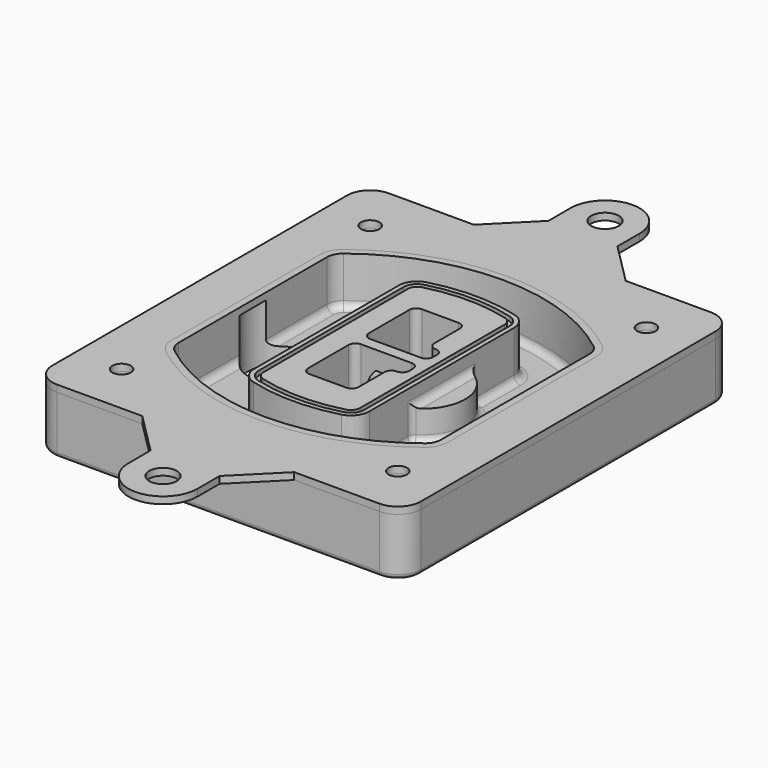
from build123d import *

# Parameters (mm, degrees)
F0_R      = 4
F1_DEPTH  = 25
F2_DEPTH  = 3
F3_DEPTH  = 18
F5_DEPTH  = 21
F6_DEPTH  = 2
F8_DEPTH  = 20
F9_DEPTH  = 16
F10_DEPTH = 25
F7_R      = 6
F7_R_2    = 4
F11_DEPTH = 6
F13_DEPTH = 9
F14_R     = 3
F15_R     = 2
F16_R     = 4
F16_R_2   = 6
F17_DEPTH = 3


with BuildPart() as f1:
    # F0 (on Top) → F1 (new body)
    with BuildSketch(Plane.XY):
        with BuildLine():
            ThreePointArc((-80, -80), (-77.0710678119, -87.0710678119), (-70, -90))
            Line((-70, -90), (70, -90))
            ThreePointArc((70, -90), (77.0710678119, -87.0710678119), (80, -80))
            Line((80, -80), (80, 80))
            ThreePointArc((80, 80), (77.0710678119, 87.0710678119), (70, 90))
            Line((70, 90), (-70, 90))
            ThreePointArc((-70, 90), (-77.0710678119, 87.0710678119), (-80, 80))
            Line((-80, 80), (-80, -80))
        make_face()
        with Locations((-60, -67.5)):
            Circle(F0_R, mode=Mode.SUBTRACT)
        with Locations((60, -67.5)):
            Circle(F0_R, mode=Mode.SUBTRACT)
        with Locations((-60, 67.5)):
            Circle(F0_R, mode=Mode.SUBTRACT)
        with BuildLine():
            ThreePointArc((-64, 40.2934422872), (-62.5820384798, 46.4328484224), (-58.6153846154, 51.3286200352))
            ThreePointArc((-58.6153846154, 51.3286200352), (0, 71.5), (58.6153846154, 51.3286200352))
            ThreePointArc((58.6153846154, 51.3286200352), (62.5820384798, 46.4328484224), (64, 40.2934422872))
            Line((64, 40.2934422872), (64, -40.2934422872))
            ThreePointArc((64, -40.2934422872), (62.5820384798, -46.4328484224), (58.6153846154, -51.3286200352))
            ThreePointArc((58.6153846154, -51.3286200352), (0, -71.5), (-58.6153846154, -51.3286200352))
            ThreePointArc((-58.6153846154, -51.3286200352), (-62.5820384798, -46.4328484224), (-64, -40.2934422872))
            Line((-64, -40.2934422872), (-64, 40.2934422872))
        make_face(mode=Mode.SUBTRACT)
        with Locations((60, 67.5)):
            Circle(F0_R, mode=Mode.SUBTRACT)
        with BuildLine():
            ThreePointArc((58.6153846154, 51.3286200352), (0, 71.5), (-58.6153846154, 51.3286200352))
            ThreePointArc((-58.6153846154, 51.3286200352), (-62.5820384798, 46.4328484224), (-64, 40.2934422872))
            Line((-64, 40.2934422872), (-64, -40.2934422872))
            ThreePointArc((-64, -40.2934422872), (-62.5820384798, -46.4328484224), (-58.6153846154, -51.3286200352))
            ThreePointArc((-58.6153846154, -51.3286200352), (0, -71.5), (58.6153846154, -51.3286200352))
            ThreePointArc((58.6153846154, -51.3286200352), (62.5820384798, -46.4328484224), (64, -40.2934422872))
            Line((64, -40.2934422872), (64, 40.2934422872))
            ThreePointArc((64, 40.2934422872), (62.5820384798, 46.4328484224), (58.6153846154, 51.3286200352))
        make_face()
        with BuildLine():
            Line((-60, -40.2934422872), (-60, 40.2934422872))
            ThreePointArc((-60, 40.2934422872), (-58.9871703427, 44.6787323838), (-56.1538461538, 48.1757121072))
            ThreePointArc((-56.1538461538, 48.1757121072), (0, 67.5), (56.1538461538, 48.1757121072))
            ThreePointArc((56.1538461538, 48.1757121072), (58.9871703427, 44.6787323838), (60, 40.2934422872))
            Line((60, 40.2934422872), (60, -40.2934422872))
            ThreePointArc((60, -40.2934422872), (58.9871703427, -44.6787323838), (56.1538461538, -48.1757121072))
            ThreePointArc((56.1538461538, -48.1757121072), (0, -67.5), (-56.1538461538, -48.1757121072))
            ThreePointArc((-56.1538461538, -48.1757121072), (-58.9871703427, -44.6787323838), (-60, -40.2934422872))
        make_face(mode=Mode.SUBTRACT)
        with BuildLine():
            ThreePointArc((-56.1538461538, 48.1757121072), (-58.9871703427, 44.6787323838), (-60, 40.2934422872))
            Line((-60, 40.2934422872), (-60, -40.2934422872))
            ThreePointArc((-60, -40.2934422872), (-58.9871703427, -44.6787323838), (-56.1538461538, -48.1757121072))
            ThreePointArc((-56.1538461538, -48.1757121072), (0, -67.5), (56.1538461538, -48.1757121072))
            ThreePointArc((56.1538461538, -48.1757121072), (58.9871703427, -44.6787323838), (60, -40.2934422872))
            Line((60, -40.2934422872), (60, 40.2934422872))
            ThreePointArc((60, 40.2934422872), (58.9871703427, 44.6787323838), (56.1538461538, 48.1757121072))
            ThreePointArc((56.1538461538, 48.1757121072), (0, 67.5), (-56.1538461538, 48.1757121072))
        make_face()
        with BuildLine():
            ThreePointArc((54.3076923077, 45.8110311612), (56.2910192399, 43.3631453548), (57, 40.2934422872))
            Line((57, 40.2934422872), (57, -40.2934422872))
            ThreePointArc((57, -40.2934422872), (56.2910192399, -43.3631453548), (54.3076923077, -45.8110311612))
            ThreePointArc((54.3076923077, -45.8110311612), (0, -64.5), (-54.3076923077, -45.8110311612))
            ThreePointArc((-54.3076923077, -45.8110311612), (-56.2910192399, -43.3631453548), (-57, -40.2934422872))
            Line((-57, -40.2934422872), (-57, 40.2934422872))
            ThreePointArc((-57, 40.2934422872), (-56.2910192399, 43.3631453548), (-54.3076923077, 45.8110311612))
            ThreePointArc((-54.3076923077, 45.8110311612), (0, 64.5), (54.3076923077, 45.8110311612))
        make_face(mode=Mode.SUBTRACT)
        with BuildLine():
            Line((57, -40.2934422872), (57, 40.2934422872))
            ThreePointArc((57, 40.2934422872), (56.2910192399, 43.3631453548), (54.3076923077, 45.8110311612))
            ThreePointArc((54.3076923077, 45.8110311612), (0, 64.5), (-54.3076923077, 45.8110311612))
            ThreePointArc((-54.3076923077, 45.8110311612), (-56.2910192399, 43.3631453548), (-57, 40.2934422872))
            Line((-57, 40.2934422872), (-57, -40.2934422872))
            ThreePointArc((-57, -40.2934422872), (-56.2910192399, -43.3631453548), (-54.3076923077, -45.8110311612))
            ThreePointArc((-54.3076923077, -45.8110311612), (0, -64.5), (54.3076923077, -45.8110311612))
            ThreePointArc((54.3076923077, -45.8110311612), (56.2910192399, -43.3631453548), (57, -40.2934422872))
        make_face()
    extrude(amount=-F1_DEPTH)

    # F0 (on Top) → F2 (join)
    with BuildSketch(Plane.XY):
        with BuildLine():
            ThreePointArc((-56.1538461538, 48.1757121072), (-58.9871703427, 44.6787323838), (-60, 40.2934422872))
            Line((-60, 40.2934422872), (-60, -40.2934422872))
            ThreePointArc((-60, -40.2934422872), (-58.9871703427, -44.6787323838), (-56.1538461538, -48.1757121072))
            ThreePointArc((-56.1538461538, -48.1757121072), (0, -67.5), (56.1538461538, -48.1757121072))
            ThreePointArc((56.1538461538, -48.1757121072), (58.9871703427, -44.6787323838), (60, -40.2934422872))
            Line((60, -40.2934422872), (60, 40.2934422872))
            ThreePointArc((60, 40.2934422872), (58.9871703427, 44.6787323838), (56.1538461538, 48.1757121072))
            ThreePointArc((56.1538461538, 48.1757121072), (0, 67.5), (-56.1538461538, 48.1757121072))
        make_face()
        with BuildLine():
            ThreePointArc((54.3076923077, 45.8110311612), (56.2910192399, 43.3631453548), (57, 40.2934422872))
            Line((57, 40.2934422872), (57, -40.2934422872))
            ThreePointArc((57, -40.2934422872), (56.2910192399, -43.3631453548), (54.3076923077, -45.8110311612))
            ThreePointArc((54.3076923077, -45.8110311612), (0, -64.5), (-54.3076923077, -45.8110311612))
            ThreePointArc((-54.3076923077, -45.8110311612), (-56.2910192399, -43.3631453548), (-57, -40.2934422872))
            Line((-57, -40.2934422872), (-57, 40.2934422872))
            ThreePointArc((-57, 40.2934422872), (-56.2910192399, 43.3631453548), (-54.3076923077, 45.8110311612))
            ThreePointArc((-54.3076923077, 45.8110311612), (0, 64.5), (54.3076923077, 45.8110311612))
        make_face(mode=Mode.SUBTRACT)
    extrude(amount=F2_DEPTH)

    # F0 (on Top) → F3 (cut)
    with BuildSketch(Plane.XY):
        with BuildLine():
            Line((57, -40.2934422872), (57, 40.2934422872))
            ThreePointArc((57, 40.2934422872), (56.2910192399, 43.3631453548), (54.3076923077, 45.8110311612))
            ThreePointArc((54.3076923077, 45.8110311612), (0, 64.5), (-54.3076923077, 45.8110311612))
            ThreePointArc((-54.3076923077, 45.8110311612), (-56.2910192399, 43.3631453548), (-57, 40.2934422872))
            Line((-57, 40.2934422872), (-57, -40.2934422872))
            ThreePointArc((-57, -40.2934422872), (-56.2910192399, -43.3631453548), (-54.3076923077, -45.8110311612))
            ThreePointArc((-54.3076923077, -45.8110311612), (0, -64.5), (54.3076923077, -45.8110311612))
            ThreePointArc((54.3076923077, -45.8110311612), (56.2910192399, -43.3631453548), (57, -40.2934422872))
        make_face()
    extrude(amount=-F3_DEPTH, mode=Mode.SUBTRACT)

    # F4 (on face) → F5 (join, through all)
    with BuildSketch(Plane.XY.offset(3)):
        with BuildLine():
            ThreePointArc((-25, -39.2465276821), (-23.3511545998, -44.1109737193), (-19.0842911877, -46.9702398883))
            ThreePointArc((-19.0842911877, -46.9702398883), (0, -49.5), (19.0842911877, -46.9702398883))
            ThreePointArc((19.0842911877, -46.9702398883), (23.3511545998, -44.1109737193), (25, -39.2465276821))
            Line((25, -39.2465276821), (25, 39.2465276821))
            ThreePointArc((25, 39.2465276821), (23.3511545998, 44.1109737193), (19.0842911877, 46.9702398883))
            ThreePointArc((19.0842911877, 46.9702398883), (0, 49.5), (-19.0842911877, 46.9702398883))
            ThreePointArc((-19.0842911877, 46.9702398883), (-23.3511545998, 44.1109737193), (-25, 39.2465276821))
            Line((-25, 39.2465276821), (-25, -39.2465276821))
        make_face()
        with BuildLine():
            ThreePointArc((18.5632183908, 45.0393118368), (21.7633659499, 42.89486221), (23, 39.2465276821))
            Line((23, 39.2465276821), (23, -39.2465276821))
            ThreePointArc((23, -39.2465276821), (21.7633659499, -42.89486221), (18.5632183908, -45.0393118368))
            ThreePointArc((18.5632183908, -45.0393118368), (0, -47.5), (-18.5632183908, -45.0393118368))
            ThreePointArc((-18.5632183908, -45.0393118368), (-21.7633659499, -42.89486221), (-23, -39.2465276821))
            Line((-23, -39.2465276821), (-23, 39.2465276821))
            ThreePointArc((-23, 39.2465276821), (-21.7633659499, 42.89486221), (-18.5632183908, 45.0393118368))
            ThreePointArc((-18.5632183908, 45.0393118368), (0, 47.5), (18.5632183908, 45.0393118368))
        make_face(mode=Mode.SUBTRACT)
        with BuildLine():
            Line((23, -39.2465276821), (23, 39.2465276821))
            ThreePointArc((23, 39.2465276821), (21.7633659499, 42.89486221), (18.5632183908, 45.0393118368))
            ThreePointArc((18.5632183908, 45.0393118368), (0, 47.5), (-18.5632183908, 45.0393118368))
            ThreePointArc((-18.5632183908, 45.0393118368), (-21.7633659499, 42.89486221), (-23, 39.2465276821))
            Line((-23, 39.2465276821), (-23, -39.2465276821))
            ThreePointArc((-23, -39.2465276821), (-21.7633659499, -42.89486221), (-18.5632183908, -45.0393118368))
            ThreePointArc((-18.5632183908, -45.0393118368), (0, -47.5), (18.5632183908, -45.0393118368))
            ThreePointArc((18.5632183908, -45.0393118368), (21.7633659499, -42.89486221), (23, -39.2465276821))
        make_face()
        with BuildLine():
            ThreePointArc((18.0421455939, 43.1083837852), (20.1755772999, 41.6787507007), (21, 39.2465276821))
            Line((21, 39.2465276821), (21, -39.2465276821))
            ThreePointArc((21, -39.2465276821), (20.1755772999, -41.6787507007), (18.0421455939, -43.1083837852))
            ThreePointArc((18.0421455939, -43.1083837852), (0, -45.5), (-18.0421455939, -43.1083837852))
            ThreePointArc((-18.0421455939, -43.1083837852), (-20.1755772999, -41.6787507007), (-21, -39.2465276821))
            Line((-21, -39.2465276821), (-21, 39.2465276821))
            ThreePointArc((-21, 39.2465276821), (-20.1755772999, 41.6787507007), (-18.0421455939, 43.1083837852))
            ThreePointArc((-18.0421455939, 43.1083837852), (0, 45.5), (18.0421455939, 43.1083837852))
        make_face(mode=Mode.SUBTRACT)
        with BuildLine():
            Line((21, -39.2465276821), (21, 39.2465276821))
            ThreePointArc((21, 39.2465276821), (20.1755772999, 41.6787507007), (18.0421455939, 43.1083837852))
            ThreePointArc((18.0421455939, 43.1083837852), (0, 45.5), (-18.0421455939, 43.1083837852))
            ThreePointArc((-18.0421455939, 43.1083837852), (-20.1755772999, 41.6787507007), (-21, 39.2465276821))
            Line((-21, 39.2465276821), (-21, -39.2465276821))
            ThreePointArc((-21, -39.2465276821), (-20.1755772999, -41.6787507007), (-18.0421455939, -43.1083837852))
            ThreePointArc((-18.0421455939, -43.1083837852), (0, -45.5), (18.0421455939, -43.1083837852))
            ThreePointArc((18.0421455939, -43.1083837852), (20.1755772999, -41.6787507007), (21, -39.2465276821))
        make_face()
        with BuildLine():
            Line((-8, -2.5), (14, -2.5))
            ThreePointArc((14, -2.5), (16.1213203436, -3.3786796564), (17, -5.5))
            Line((17, -5.5), (17, -7.5))
            ThreePointArc((17, -7.5), (16.1213203436, -9.6213203436), (14, -10.5))
            ThreePointArc((14, -10.5), (11.8786796564, -11.3786796564), (11, -13.5))
            Line((11, -13.5), (11, -27.5))
            ThreePointArc((11, -27.5), (10.1213203436, -29.6213203436), (8, -30.5))
            Line((8, -30.5), (-8, -30.5))
            ThreePointArc((-8, -30.5), (-10.1213203436, -29.6213203436), (-11, -27.5))
            Line((-11, -27.5), (-11, -5.5))
            ThreePointArc((-11, -5.5), (-10.1213203436, -3.3786796564), (-8, -2.5))
        make_face(mode=Mode.SUBTRACT)
        with BuildLine():
            ThreePointArc((-8, 2.5), (-10.1213203436, 3.3786796564), (-11, 5.5))
            Line((-11, 5.5), (-11, 27.5))
            ThreePointArc((-11, 27.5), (-10.1213203436, 29.6213203436), (-8, 30.5))
            Line((-8, 30.5), (8, 30.5))
            ThreePointArc((8, 30.5), (10.1213203436, 29.6213203436), (11, 27.5))
            Line((11, 27.5), (11, 13.5))
            ThreePointArc((11, 13.5), (11.8786796564, 11.3786796564), (14, 10.5))
            ThreePointArc((14, 10.5), (16.1213203436, 9.6213203436), (17, 7.5))
            Line((17, 7.5), (17, 5.5))
            ThreePointArc((17, 5.5), (16.1213203436, 3.3786796564), (14, 2.5))
            Line((14, 2.5), (-8, 2.5))
        make_face(mode=Mode.SUBTRACT)
    extrude(amount=-F5_DEPTH)

    # F4 (on face) → F6 (cut)
    with BuildSketch(Plane.XY.offset(3)):
        with BuildLine():
            Line((23, -39.2465276821), (23, 39.2465276821))
            ThreePointArc((23, 39.2465276821), (21.7633659499, 42.89486221), (18.5632183908, 45.0393118368))
            ThreePointArc((18.5632183908, 45.0393118368), (0, 47.5), (-18.5632183908, 45.0393118368))
            ThreePointArc((-18.5632183908, 45.0393118368), (-21.7633659499, 42.89486221), (-23, 39.2465276821))
            Line((-23, 39.2465276821), (-23, -39.2465276821))
            ThreePointArc((-23, -39.2465276821), (-21.7633659499, -42.89486221), (-18.5632183908, -45.0393118368))
            ThreePointArc((-18.5632183908, -45.0393118368), (0, -47.5), (18.5632183908, -45.0393118368))
            ThreePointArc((18.5632183908, -45.0393118368), (21.7633659499, -42.89486221), (23, -39.2465276821))
        make_face()
        with BuildLine():
            ThreePointArc((18.0421455939, 43.1083837852), (20.1755772999, 41.6787507007), (21, 39.2465276821))
            Line((21, 39.2465276821), (21, -39.2465276821))
            ThreePointArc((21, -39.2465276821), (20.1755772999, -41.6787507007), (18.0421455939, -43.1083837852))
            ThreePointArc((18.0421455939, -43.1083837852), (0, -45.5), (-18.0421455939, -43.1083837852))
            ThreePointArc((-18.0421455939, -43.1083837852), (-20.1755772999, -41.6787507007), (-21, -39.2465276821))
            Line((-21, -39.2465276821), (-21, 39.2465276821))
            ThreePointArc((-21, 39.2465276821), (-20.1755772999, 41.6787507007), (-18.0421455939, 43.1083837852))
            ThreePointArc((-18.0421455939, 43.1083837852), (0, 45.5), (18.0421455939, 43.1083837852))
        make_face(mode=Mode.SUBTRACT)
    extrude(amount=-F6_DEPTH, mode=Mode.SUBTRACT)

    # F7 (on face) → F8 (join)
    with BuildSketch(Plane(origin=(0, 0, -25), x_dir=(1, 0, 0), z_dir=(0, 0, -1))):
        with BuildLine():
            ThreePointArc((3.28842436, 0), (16.7567035675, 13.4682792075), (30.224982775, 0))
            Line((30.224982775, 0), (35.224982775, 0))
            ThreePointArc((35.224982775, 0), (16.7567035675, 18.4682792075), (-1.71157564, 0))
            Line((-1.71157564, 0), (3.28842436, 0))
        make_face()
        with BuildLine():
            Line((3.28842436, 0), (30.224982775, 0))
            ThreePointArc((30.224982775, 0), (16.7567035675, 13.4682792075), (3.28842436, 0))
        make_face()
        with BuildLine():
            ThreePointArc((3.28842436, 0), (16.7567035675, -13.4682792075), (30.224982775, 0))
            Line((30.224982775, 0), (3.28842436, 0))
        make_face()
        with BuildLine():
            Line((35.224982775, 0), (30.224982775, 0))
            ThreePointArc((30.224982775, 0), (16.7567035675, -13.4682792075), (3.28842436, 0))
            Line((3.28842436, 0), (-1.71157564, 0))
            ThreePointArc((-1.71157564, 0), (16.7567035675, -18.4682792075), (35.224982775, 0))
        make_face()
    extrude(amount=-F8_DEPTH)

    # F7 (on face) → F9 (cut)
    with BuildSketch(Plane(origin=(0, 0, -25), x_dir=(1, 0, 0), z_dir=(0, 0, -1))):
        with BuildLine():
            Line((3.28842436, 0), (30.224982775, 0))
            ThreePointArc((30.224982775, 0), (16.7567035675, 13.4682792075), (3.28842436, 0))
        make_face()
        with BuildLine():
            ThreePointArc((3.28842436, 0), (16.7567035675, -13.4682792075), (30.224982775, 0))
            Line((30.224982775, 0), (3.28842436, 0))
        make_face()
    extrude(amount=-F9_DEPTH, mode=Mode.SUBTRACT)

    # F7 (on face) → F10 (cut)
    with BuildSketch(Plane(origin=(0, 0, -25), x_dir=(1, 0, 0), z_dir=(0, 0, -1))):
        with BuildLine():
            Line((-59.0318229325, 0), (-32.0952645175, 0))
            ThreePointArc((-32.0952645175, 0), (-45.563543725, 13.4682792075), (-59.0318229325, 0))
        make_face()
        with BuildLine():
            ThreePointArc((-59.0318229325, 0), (-45.563543725, -13.4682792075), (-32.0952645175, 0))
            Line((-32.0952645175, 0), (-59.0318229325, 0))
        make_face()
    extrude(amount=-F10_DEPTH, mode=Mode.SUBTRACT)

    # F7 (on face) → F11 (cut)
    with BuildSketch(Plane(origin=(0, 0, -25), x_dir=(1, 0, 0), z_dir=(0, 0, -1))):
        with Locations((60, -67.5)):
            Circle(F7_R)
        with Locations((60, -67.5)):
            Circle(F7_R_2, mode=Mode.SUBTRACT)
        with Locations((60, -67.5)):
            Circle(F7_R)
        with Locations((60, -67.5)):
            Circle(F7_R_2, mode=Mode.SUBTRACT)
        with Locations((-60, -67.5)):
            Circle(F7_R)
        with Locations((-60, -67.5)):
            Circle(F7_R_2, mode=Mode.SUBTRACT)
        with Locations((-60, -67.5)):
            Circle(F7_R)
        with Locations((-60, -67.5)):
            Circle(F7_R_2, mode=Mode.SUBTRACT)
        with Locations((-60, 67.5)):
            Circle(F7_R)
        with Locations((-60, 67.5)):
            Circle(F7_R_2, mode=Mode.SUBTRACT)
        with Locations((-60, 67.5)):
            Circle(F7_R)
        with Locations((-60, 67.5)):
            Circle(F7_R_2, mode=Mode.SUBTRACT)
        with Locations((60, 67.5)):
            Circle(F7_R)
        with Locations((60, 67.5)):
            Circle(F7_R_2, mode=Mode.SUBTRACT)
        with Locations((60, 67.5)):
            Circle(F7_R)
        with Locations((60, 67.5)):
            Circle(F7_R_2, mode=Mode.SUBTRACT)
    extrude(amount=-F11_DEPTH, mode=Mode.SUBTRACT)

    # F12 (on face) → F13 (cut, through all)
    with BuildSketch(Plane(origin=(0, 0, -9), x_dir=(1, 0, 0), z_dir=(0, 0, -1))):
        with BuildLine():
            Line((11, 13.5), (11, 17.5481537753))
            ThreePointArc((11, 17.5481537753), (2.5696536419, 11.8239143813), (-1.5415842455, 2.5))
            Line((-1.5415842455, 2.5), (3.5224848595, 2.5))
            ThreePointArc((3.5224848595, 2.5), (6.1857188154, 8.3455872281), (11.2536447004, 12.2927168648))
            ThreePointArc((11.2536447004, 12.2927168648), (11.0640958889, 12.8831798879), (11, 13.5))
        make_face()
        with BuildLine():
            ThreePointArc((11.2536447004, -12.2927168648), (6.1857188154, -8.3455872281), (3.5224848595, -2.5))
            Line((3.5224848595, -2.5), (-1.5415842455, -2.5))
            ThreePointArc((-1.5415842455, -2.5), (2.5696536419, -11.8239143813), (11, -17.5481537753))
            Line((11, -17.5481537753), (11, -13.5))
            ThreePointArc((11, -13.5), (11.0640958889, -12.8831798879), (11.2536447004, -12.2927168648))
        make_face()
        with BuildLine():
            ThreePointArc((11.2536447004, 12.2927168648), (6.1857188154, 8.3455872281), (3.5224848595, 2.5))
            Line((3.5224848595, 2.5), (14, 2.5))
            ThreePointArc((14, 2.5), (16.1213203436, 3.3786796564), (17, 5.5))
            Line((17, 5.5), (17, 7.5))
            ThreePointArc((17, 7.5), (16.1213203436, 9.6213203436), (14, 10.5))
            ThreePointArc((14, 10.5), (12.3601599782, 10.9878446101), (11.2536447004, 12.2927168648))
        make_face()
        with BuildLine():
            Line((14, -2.5), (3.5224848595, -2.5))
            ThreePointArc((3.5224848595, -2.5), (6.1857188154, -8.3455872281), (11.2536447004, -12.2927168648))
            ThreePointArc((11.2536447004, -12.2927168648), (12.3601599782, -10.9878446101), (14, -10.5))
            ThreePointArc((14, -10.5), (16.1213203436, -9.6213203436), (17, -7.5))
            Line((17, -7.5), (17, -5.5))
            ThreePointArc((17, -5.5), (16.1213203436, -3.3786796564), (14, -2.5))
        make_face()
    extrude(amount=F13_DEPTH, mode=Mode.SUBTRACT)

    # F14
    f14_edges = [f1.edges().sort_by_distance(p)[0] for p in [
        (-57, -23.703476, -18),
        (-57, 23.703476, -18),
        (25, 0, -5),
        (25, 16.526506, -11.5),
        (25, -16.526506, -11.5),
        (25, -27.886517, -18),
        (35.224983, 0, -18),
    ]]
    fillet(f14_edges, radius=F14_R)

    # F15
    f15_edges = [f1.edges().sort_by_distance(p)[0] for p in [
        (0, -90, -25),
    ]]
    fillet(f15_edges, radius=F15_R)


with BuildPart() as f17:
    # F16 (on face) → F17 (new body, through all)
    with BuildSketch(Plane.XY):
        with BuildLine():
            ThreePointArc((70, -90), (77.0710678119, -87.0710678119), (80, -80))
            Line((80, -80), (80, 80))
            ThreePointArc((80, 80), (77.0710678119, 87.0710678119), (70, 90))
            Line((70, 90), (33, 90))
            Line((33, 90), (-33, 90))
            Line((-33, 90), (-70, 90))
            ThreePointArc((-70, 90), (-77.0710678119, 87.0710678119), (-80, 80))
            Line((-80, 80), (-80, -80))
            ThreePointArc((-80, -80), (-77.0710678119, -87.0710678119), (-70, -90))
            Line((-70, -90), (-33, -90))
            Line((-33, -90), (33, -90))
            Line((33, -90), (70, -90))
        make_face()
        with Locations((-60, -67.5)):
            Circle(F16_R, mode=Mode.SUBTRACT)
        with Locations((60, -67.5)):
            Circle(F16_R, mode=Mode.SUBTRACT)
        with Locations((-60, 67.5)):
            Circle(F16_R, mode=Mode.SUBTRACT)
        with BuildLine():
            ThreePointArc((-56.1538461538, 48.1757121072), (0, 67.5), (56.1538461538, 48.1757121072))
            ThreePointArc((56.1538461538, 48.1757121072), (58.9871703427, 44.6787323838), (60, 40.2934422872))
            Line((60, 40.2934422872), (60, -40.2934422872))
            ThreePointArc((60, -40.2934422872), (58.9871703427, -44.6787323838), (56.1538461538, -48.1757121072))
            ThreePointArc((56.1538461538, -48.1757121072), (0, -67.5), (-56.1538461538, -48.1757121072))
            ThreePointArc((-56.1538461538, -48.1757121072), (-58.9871703427, -44.6787323838), (-60, -40.2934422872))
            Line((-60, -40.2934422872), (-60, 40.2934422872))
            ThreePointArc((-60, 40.2934422872), (-58.9871703427, 44.6787323838), (-56.1538461538, 48.1757121072))
        make_face(mode=Mode.SUBTRACT)
        with Locations((60, 67.5)):
            Circle(F16_R, mode=Mode.SUBTRACT)
        with BuildLine():
            Line((15, -108), (33, -90))
            Line((33, -90), (-33, -90))
            Line((-33, -90), (-15, -108))
            Line((-15, -108), (-15, -120))
            ThreePointArc((-15, -120), (0, -135), (15, -120))
            Line((15, -120), (15, -108))
        make_face()
        with Locations((0, -120)):
            Circle(F16_R_2, mode=Mode.SUBTRACT)
        with BuildLine():
            Line((-33, 90), (33, 90))
            Line((33, 90), (15, 108))
            Line((15, 108), (15, 120))
            ThreePointArc((15, 120), (0, 135), (-15, 120))
            Line((-15, 120), (-15, 108))
            Line((-15, 108), (-33, 90))
        make_face()
        with Locations((0, 120)):
            Circle(F16_R_2, mode=Mode.SUBTRACT)
    extrude(amount=F17_DEPTH)


solid = Compound([f1.part, f17.part])
